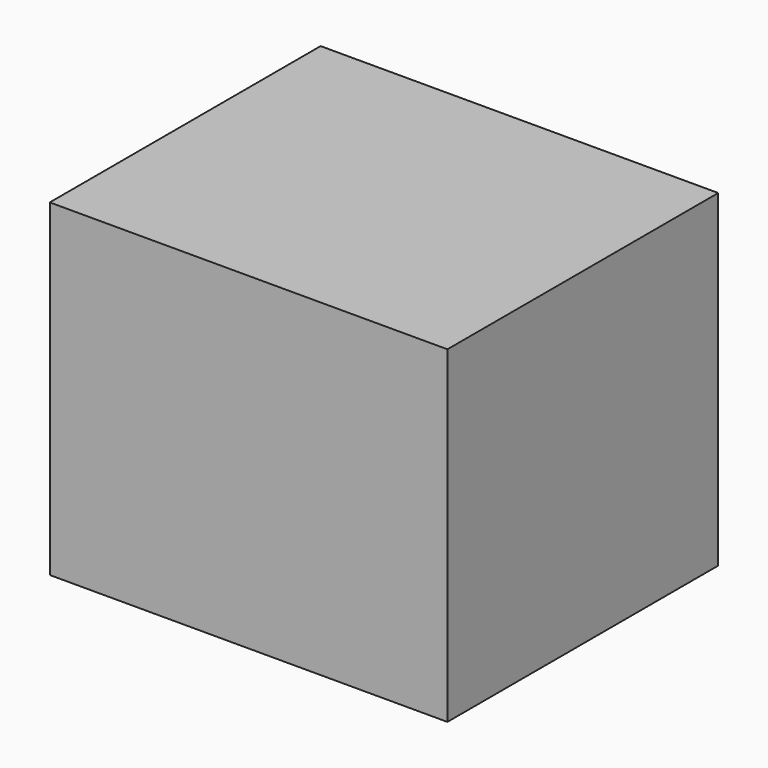
from build123d import *

# Parameters (mm, degrees)
F0_W     = 58.733277
F0_H     = 48.45224
F1_DEPTH = 25
F3_DEPTH = 50


with BuildPart() as f1:
    # F0 (on Front) → F1 (new body, symmetric)
    with BuildSketch(Plane.XZ):
        with Locations((-2.626128, 1.777457)):
            Rectangle(F0_W, F0_H)
    extrude(amount=F1_DEPTH, both=True)

    # F2 (on face) → F3 (join)
    with BuildSketch(Plane.XZ.offset(25)):
        with BuildLine():
            Line((26.74051, -4.699446), (26.74051, 4.699446))
            ThreePointArc((26.74051, 4.699446), (1.953358, 0), (26.74051, -4.699446))
        make_face()
    extrude(amount=-F3_DEPTH)


solid = f1.part
